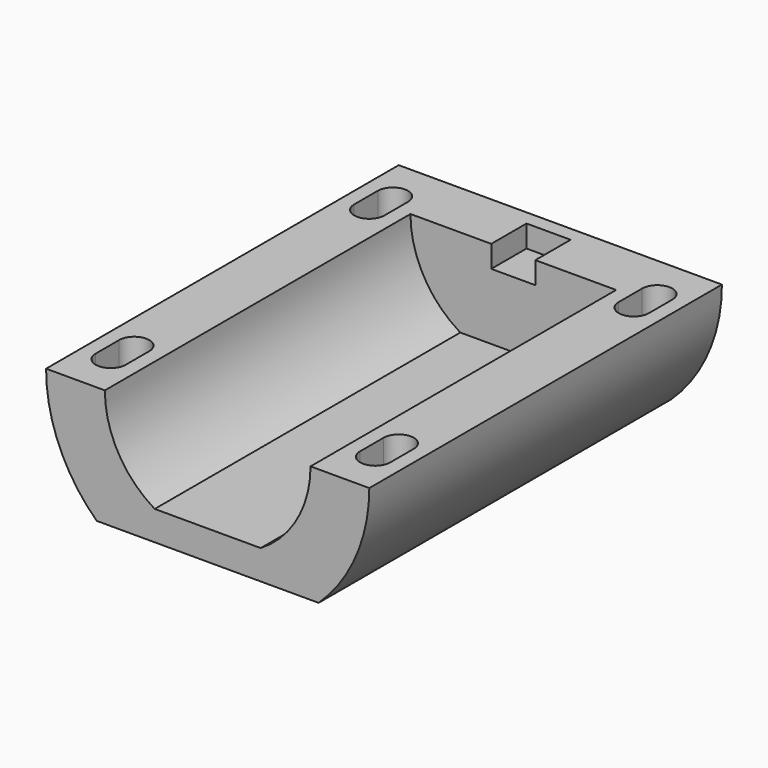
from build123d import *

# Parameters (mm, degrees)
F1_W      = 22
F1_H      = 30
F2_DEPTH  = 8
F4_DEPTH  = 30.001
F6_DEPTH  = 2.5
F8_DEPTH  = 26
F9_W      = 3
F9_H      = 1.5
F10_DEPTH = 3


with BuildPart() as f2:
    # F1 (on Top) → F2 (new body)
    with BuildSketch(Plane.XY):
        with Locations((0, 15)):
            Rectangle(F1_W, F1_H)
    extrude(amount=-F2_DEPTH)

    # F3 (on face) → F4 (cut, through all)
    with BuildSketch(Plane.XZ):
        with BuildLine():
            Line((11, -8), (11, 0))
            ThreePointArc((11, 0), (10.100697, -4.356135), (7.549834, -8))
            Line((7.549834, -8), (11, -8))
        make_face()
        with BuildLine():
            ThreePointArc((-7.549834, -8), (-10.100697, -4.356135), (-11, 0))
            Line((-11, 0), (-11, -8))
            Line((-11, -8), (-7.549834, -8))
        make_face()
    extrude(amount=-F4_DEPTH, mode=Mode.SUBTRACT)

    # F5 (on face) → F6 (cut)
    with BuildSketch(Plane.XY):
        with BuildLine():
            ThreePointArc((-7.975, 5), (-9, 6.025), (-10.025, 5))
            Line((-10.025, 5), (-10.025, 3))
            ThreePointArc((-10.025, 3), (-9, 1.975), (-7.975, 3))
            Line((-7.975, 3), (-7.975, 5))
        make_face()
        with BuildLine():
            ThreePointArc((10.025, 5), (9, 6.025), (7.975, 5))
            Line((7.975, 5), (7.975, 3))
            ThreePointArc((7.975, 3), (9, 1.975), (10.025, 3))
            Line((10.025, 3), (10.025, 5))
        make_face()
        with BuildLine():
            ThreePointArc((-7.975, 27), (-9, 28.025), (-10.025, 27))
            Line((-10.025, 27), (-10.025, 25))
            ThreePointArc((-10.025, 25), (-9, 23.975), (-7.975, 25))
            Line((-7.975, 25), (-7.975, 27))
        make_face()
        with BuildLine():
            ThreePointArc((10.025, 27), (9, 28.025), (7.975, 27))
            Line((7.975, 27), (7.975, 25))
            ThreePointArc((7.975, 25), (9, 23.975), (10.025, 25))
            Line((10.025, 25), (10.025, 27))
        make_face()
    extrude(amount=-F6_DEPTH, mode=Mode.SUBTRACT)

    # F7 (on face) → F8 (cut)
    with BuildSketch(Plane.XZ):
        with BuildLine():
            Line((7, 0), (-7, 0))
            ThreePointArc((-7, 0), (-6.092572, -3.44682), (-3.605551, -6))
            Line((-3.605551, -6), (3.605551, -6))
            ThreePointArc((3.605551, -6), (6.092572, -3.44682), (7, 0))
        make_face()
    extrude(amount=-F8_DEPTH, mode=Mode.SUBTRACT)

    # F9 (on face) → F10 (cut)
    with BuildSketch(Plane.XZ.offset(-26)):
        with Locations((0, -0.75)):
            Rectangle(F9_W, F9_H)
    extrude(amount=-F10_DEPTH, mode=Mode.SUBTRACT)


solid = f2.part
